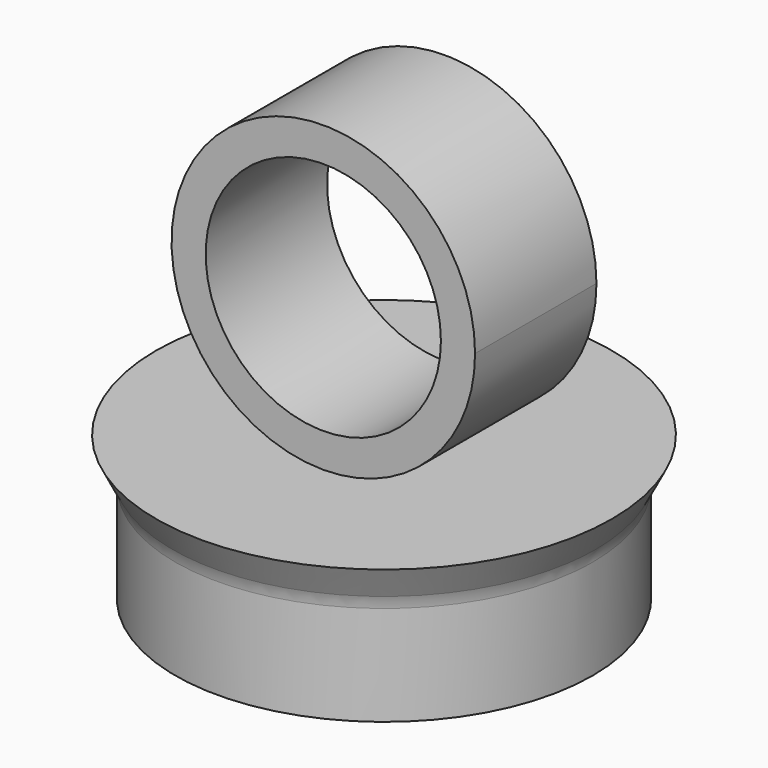
from build123d import *

# Parameters (mm, degrees)
F0_R     = 275
F1_DEPTH = 140
F2_R     = 275
F3_DEPTH = 50
F3_TAPER = -27
F4_R     = 35.1924400651
F6_W     = 200
F6_H     = 45


with BuildPart() as f1:
    # F0 (on Top) → F1 (new body)
    with BuildSketch(Plane.XY):
        Circle(F0_R)
    extrude(amount=F1_DEPTH)

    # F2 (on face) → F3 (join)
    with BuildSketch(Plane.XY.offset(140)):
        Circle(F2_R)
    extrude(amount=F3_DEPTH, taper=F3_TAPER)

    # F4
    f4_edges = [f1.edges().sort_by_distance(p)[0] for p in [
        (-275, 0, 140),
    ]]
    fillet(f4_edges, radius=F4_R)

    # F7: sweep along a path in F5
    with BuildLine(Plane.XZ) as f7_path:
        CenterArc((0, 390), 200, 0, 360)
    # F6 (on Right) → F7 (sweep)
    with BuildSketch(Plane.YZ):
        with Locations((0, 212.5)):
            Rectangle(F6_W, F6_H)
    sweep(path=f7_path.line)


solid = f1.part
